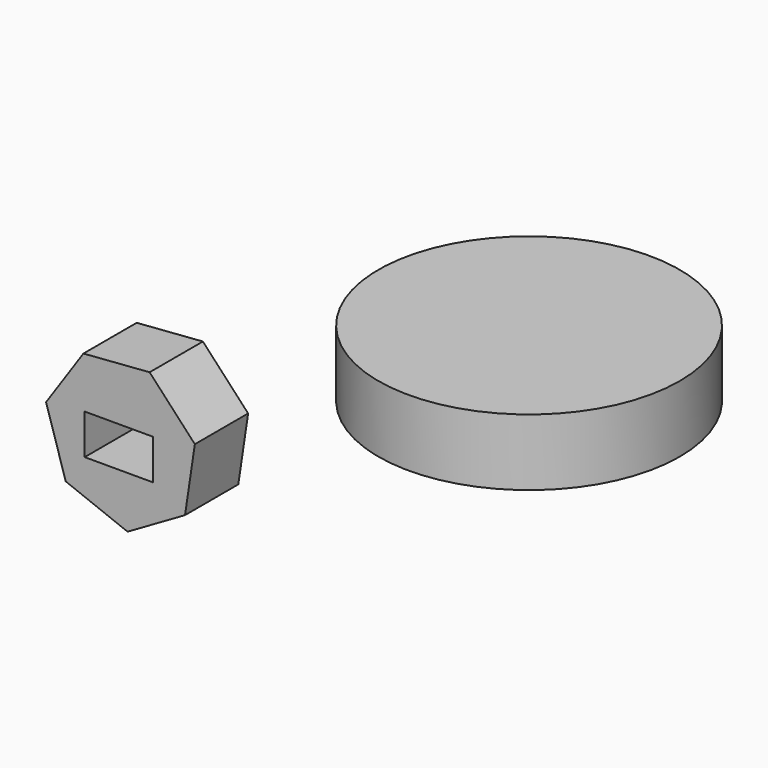
from build123d import *

# Parameters (mm, degrees)
F1_DEPTH = 25.4
F2_W     = 26.118561
F2_H     = 15.313957
F3_DEPTH = 25.401
F4_R     = 57.4686
F5_DEPTH = 25.4


with BuildPart() as f1:
    # F0 (on Front) → F1 (new body)
    with BuildSketch(Plane.XZ):
        Polygon((-49.492922, -4.253941), (-66.740099, 14.287735), (-91.990003, 12.363895), (-106.228943, -8.57677), (-98.734705, -32.765512), (-75.150605, -41.987715), (-53.23595, -29.298872), align=None)
    extrude(amount=F1_DEPTH)

    # F2 (on face) → F3 (cut, through all)
    with BuildSketch(Plane.XZ.offset(25.4)):
        with Locations((-78.451499, -14.605688)):
            Rectangle(F2_W, F2_H)
    extrude(amount=-F3_DEPTH, mode=Mode.SUBTRACT)


with BuildPart() as f5:
    # F4 (on Top) → F5 (new body)
    with BuildSketch(Plane.XY):
        with Locations((15.950277, 52.128647)):
            Circle(F4_R)
    extrude(amount=F5_DEPTH)


solid = Compound([f1.part, f5.part])
